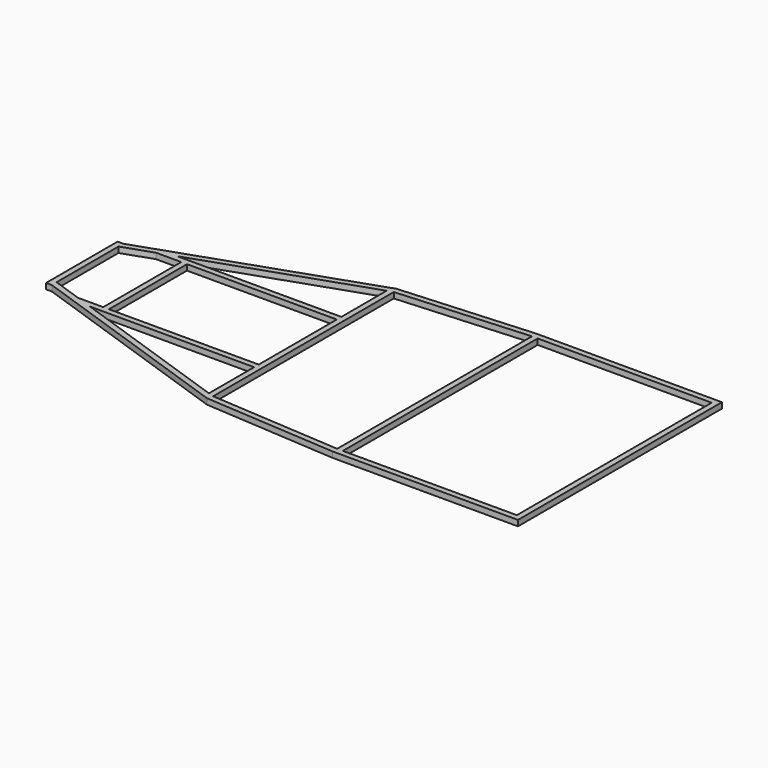
from build123d import *

# Parameters (mm, degrees)
SKETCH_W   = 657.016146
SKETCH_H   = 428
SKETCH_W_2 = 763
SKETCH_H_2 = 1068
PAD_DEPTH  = 25


with BuildPart() as part:
    # Sketch → Pad (new body)
    with BuildSketch(Plane.XY):
        Polygon((0, 0), (-813, 0), (-1395.667241, 39.432052), (-2335, 363), (-2360, 363), (-2360, 755), (-2335, 755), (-1395.667241, 1078.567948), (-813, 1118), (0, 1118), align=None)
        Polygon((-2335, 728.558359), (-2335, 389.441641), (-2205.983854, 345), (-2095, 345), (-2095, 773), (-2205.983854, 773), align=None, mode=Mode.SUBTRACT)
        with Locations((-1741.491927, 559)):
            Rectangle(SKETCH_W, SKETCH_H, mode=Mode.SUBTRACT)
        Polygon((-2133.407695, 798), (-1412.983854, 1046.161327), (-1412.983854, 798), align=None, mode=Mode.SUBTRACT)
        Polygon((-2133.407695, 320), (-1412.983854, 320), (-1412.983854, 71.838673), align=None, mode=Mode.SUBTRACT)
        Polygon((-1387.983854, 1054.030739), (-1387.983854, 63.969261), (-813, 25.057184), (-813, 1092.942816), align=None, mode=Mode.SUBTRACT)
        with Locations((-406.5, 559)):
            Rectangle(SKETCH_W_2, SKETCH_H_2, mode=Mode.SUBTRACT)
    extrude(amount=PAD_DEPTH)


solid = part.part
